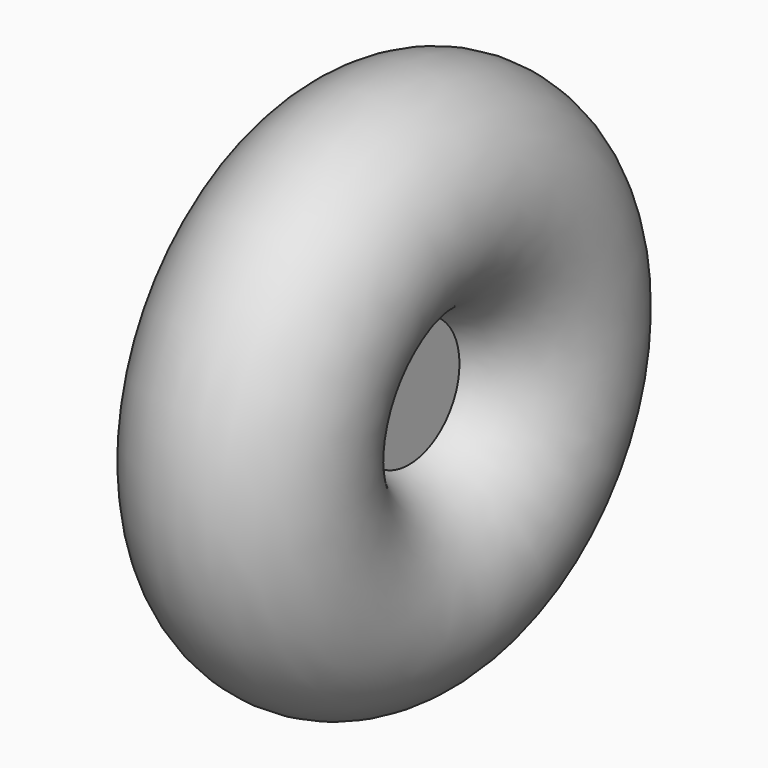
from build123d import *

# Parameters (mm, degrees)
F0_R     = 127.666495
F2_R     = 77.673414
F3_DEPTH = 30.48


with BuildPart() as f1:
    # F0 (on Front) → F1 (revolve)
    with BuildSketch(Plane.XZ):
        with Locations((0, 128.504336)):
            Circle(F0_R)
    revolve(axis=Axis((-0.234909, 0, -77.0818), (-1, 0, 0)))


with BuildPart() as f3:
    # F2 (on Right) → F3 (new body, symmetric)
    with BuildSketch(Plane.YZ):
        with Locations((0, -76.992407)):
            Circle(F2_R)
    extrude(amount=F3_DEPTH, both=True)


solid = Compound([f1.part, f3.part])
